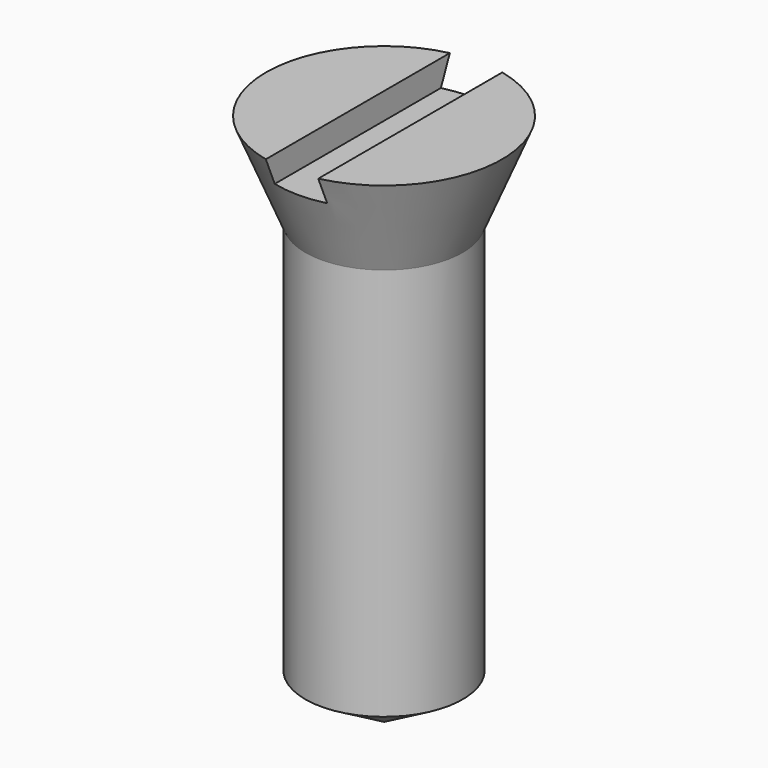
from build123d import *

# Parameters (mm, degrees)
F2_W     = 2
F2_H     = 1
F3_DEPTH = 5


with BuildPart() as f1:
    # F0 (on Front) → F1 (revolve)
    with BuildSketch(Plane.XZ):
        Polygon((-3, 1.732051), (0, 0), (0, 20.353371), (-4.5, 20.353371), (-3, 16.732051), align=None)
    revolve(axis=Axis((0, 0, 10.176686), (0, 0, -1)))

    # F2 (on Front) → F3 (cut, symmetric)
    with BuildSketch(Plane.XZ):
        with Locations((0, 19.853371)):
            Rectangle(F2_W, F2_H)
    extrude(amount=F3_DEPTH, both=True, mode=Mode.SUBTRACT)


solid = f1.part
